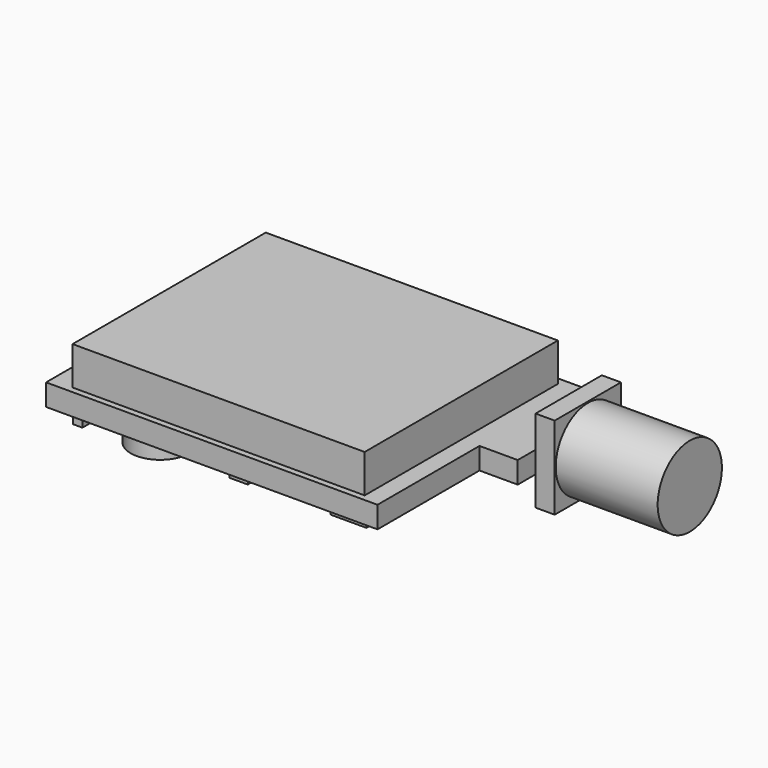
from build123d import *

# Parameters (mm, degrees)
F1_DEPTH  = 1.7
F2_W      = 22.915563779
F2_H      = 18.9440016984
F3_DEPTH  = 3
F4_W      = 9
F4_H      = 5
F5_DEPTH  = 2
F6_W      = 2.8090730775
F6_H      = 6.5048590768
F6_W_2    = 0.9965691715
F6_H_2    = 2.0780880004
F6_W_3    = 2.6543419808
F6_H_3    = 1.4811633155
F6_W_4    = 1.4437921345
F6_H_4    = 2.3924442939
F6_W_5    = 0.7371641695
F6_H_5    = 1.757067279
F6_W_6    = 0.7299780846
F6_H_6    = 1.4931405894
F6_R      = 2.3137841174
F7_DEPTH  = 1.5
F8_W      = 7
F8_H      = 4
F9_DEPTH  = 3
F10_W     = 6.5
F10_H     = 2.3
F10_H_2   = 1.7
F10_H_3   = 2.5
F11_DEPTH = 1.5
F12_R     = 3.15
F13_DEPTH = 8


with BuildPart() as f1:
    # F0 (on Top) → F1 (new body)
    with BuildSketch(Plane.XY):
        Polygon((-26, 20), (-26, 0), (0, 0), (0, 10), (3, 10), (3, 20), align=None)
    extrude(amount=F1_DEPTH)

    # F2 (on face) → F3 (join)
    with BuildSketch(Plane.XY.offset(1.7)):
        with Locations((-12.8477554535, 9.9514690519)):
            Rectangle(F2_W, F2_H)
    extrude(amount=F3_DEPTH)

    # F4 (on face) → F5 (join)
    with BuildSketch(Plane(origin=(0, 0, 0), x_dir=(1, 0, 0), z_dir=(0, 0, -1))):
        with Locations((-9.5, -15.5)):
            Rectangle(F4_W, F4_H)
    extrude(amount=F5_DEPTH)

    # F6 (on face) → F7 (join)
    with BuildSketch(Plane(origin=(0, 0, 0), x_dir=(1, 0, 0), z_dir=(0, 0, -1))):
        with Locations((-3.8609959884, -5.2312271437)):
            Rectangle(F6_W, F6_H)
        with Locations((-15.6953232363, -13.6427599937)):
            Rectangle(F6_W_2, F6_H_2)
        with Locations((-18.9768830314, -12.8015675582)):
            Rectangle(F6_W_3, F6_H_3)
        with Locations((-12.4409804121, -3.1250810716)):
            Rectangle(F6_W_4, F6_H_4)
        with Locations((-24.7127972543, -2.3718061275)):
            Rectangle(F6_W_5, F6_H_5)
        with Locations((-24.7733462602, -4.7515959013)):
            Rectangle(F6_W_6, F6_H_6)
        with Locations((-19.4019284099, -2.9428394046)):
            Circle(F6_R)
    extrude(amount=F7_DEPTH)

    # F8 (on face) → F9 (join)
    with BuildSketch(Plane(origin=(0, 0, 0), x_dir=(1, 0, 0), z_dir=(0, 0, -1))):
        with Locations((-19.5, -18)):
            Rectangle(F8_W, F8_H)
    extrude(amount=F9_DEPTH)

    # F10 (on face) → F11 (join)
    with BuildSketch(Plane.YZ.offset(3)):
        with Locations((15, -1.15)):
            Rectangle(F10_W, F10_H)
        with Locations((15, 0.85)):
            Rectangle(F10_W, F10_H_2)
        with Locations((15, 2.95)):
            Rectangle(F10_W, F10_H_3)
    extrude(amount=F11_DEPTH)

    # F12 (on face) → F13 (join)
    with BuildSketch(Plane.YZ.offset(4.5)):
        with Locations((15, 0.95)):
            Circle(F12_R)
    extrude(amount=F13_DEPTH)


solid = f1.part
